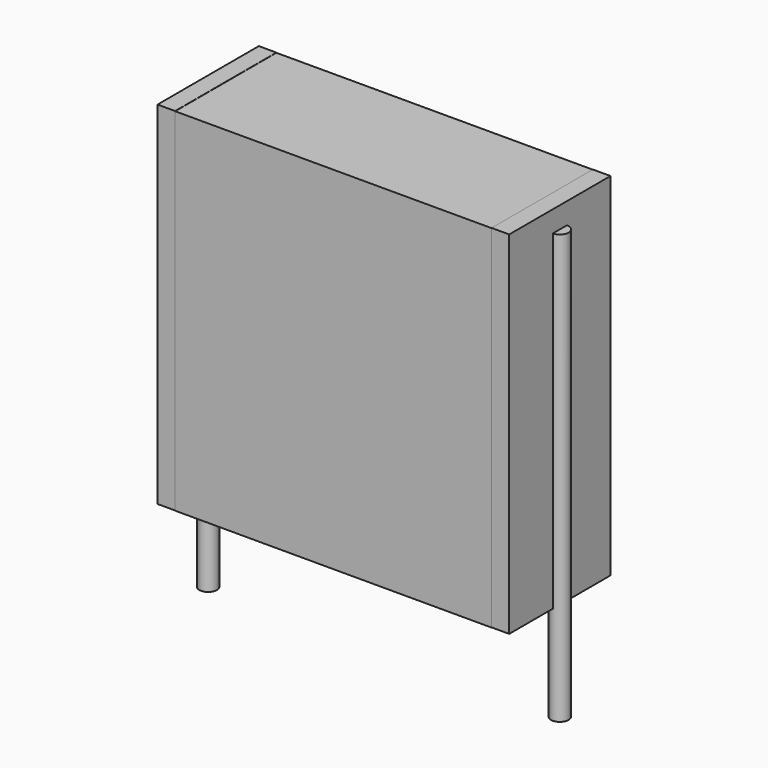
from build123d import *

# Parameters (mm, degrees)
SKETCH_W          = 9
SKETCH_H          = 3.6
PAD_DEPTH         = 10
SKETCH001_R       = 0.25
PAD001_DEPTH      = 9
PAD001_DEPTH_BACK = 3.2
SKETCH002_W       = 0.5
SKETCH002_H       = 3.6
PAD002_DEPTH      = 10


with BuildPart() as pad:
    # Sketch → Pad (new body)
    with BuildSketch(Plane.XY.offset(0.1)):
        with Locations((5, 0)):
            Rectangle(SKETCH_W, SKETCH_H)
    extrude(amount=PAD_DEPTH)


with BuildPart() as pad001:
    # Sketch001 → Pad001 (new body, two sides)
    with BuildSketch(Plane.XY.offset(0.5)) as pad001_sk:
        Circle(SKETCH001_R)
        with Locations((10, 0)):
            Circle(SKETCH001_R)
    extrude(amount=PAD001_DEPTH)
    extrude(pad001_sk.sketch, amount=-PAD001_DEPTH_BACK)


with BuildPart() as pad002:
    # Sketch002 → Pad002 (new body)
    with BuildSketch(Plane.XY.offset(0.105)):
        with Locations((0.25, 0)):
            Rectangle(SKETCH002_W, SKETCH002_H)
        with Locations((9.75, 0)):
            Rectangle(SKETCH002_W, SKETCH002_H)
    extrude(amount=PAD002_DEPTH)


solid = Compound([pad.part, pad001.part, pad002.part])
